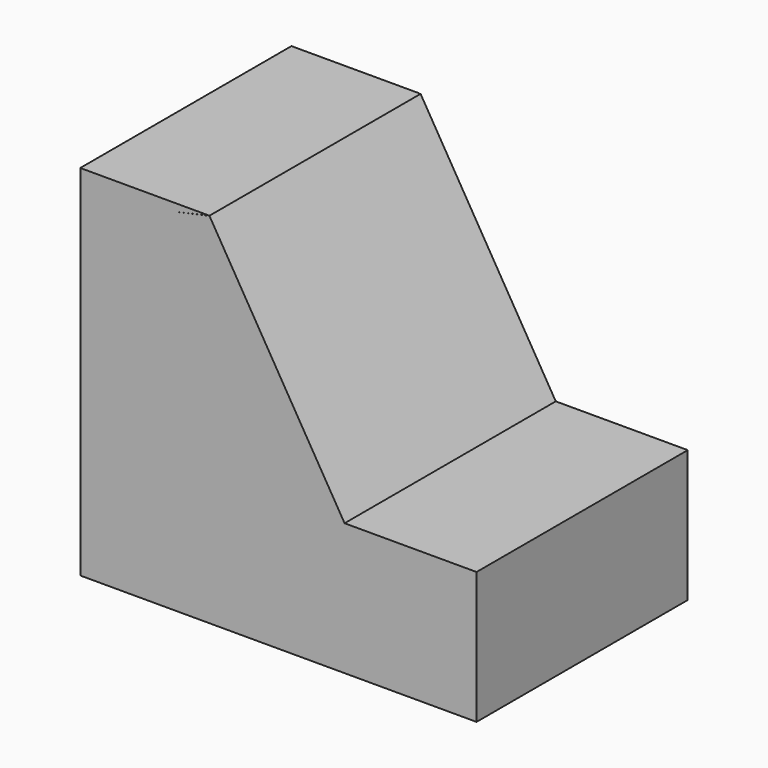
from build123d import *

# Parameters (mm, degrees)
F1_DEPTH = 25.4
F2_DEPTH = 25.4
F4_DEPTH = 25.4
F5_DEPTH = 25.4


with BuildPart() as f1:
    # F0 (on Front) → F1 (new body)
    with BuildSketch(Plane.XZ):
        Polygon((-21.2792549282, 28.9397872984), (-33.6739535907, 26.1718557484), (-33.6739535907, -5.5781442516), (4.4260464093, -5.5781442516), (4.4260464093, 7.1218557484), (-8.2739535907, 7.1218557484), align=None)
    extrude(amount=F1_DEPTH)

    # F2 (add): a face of the model
    f2_faces = [f1.faces().sort_by_distance(p)[0] for p in [
        (-18.6613811505, -25.4, 7.7485425126),
    ]]
    extrude(f2_faces, amount=F2_DEPTH)

    # F3 (on Front) → F4 (join)
    with BuildSketch(Plane.XZ):
        Polygon((-33.7073244154, 26.1170342565), (-21.333374083, 28.9452429861), (-33.7073244154, 28.9452429861), align=None)
    extrude(amount=F4_DEPTH)

    # F5 (cut): a face of the model
    f5_faces = [f1.faces().sort_by_distance(p)[0] for p in [
        (-18.6613811505, -50.8, 7.7485425126),
    ]]
    extrude(f5_faces, amount=-F5_DEPTH, mode=Mode.SUBTRACT)


solid = f1.part
